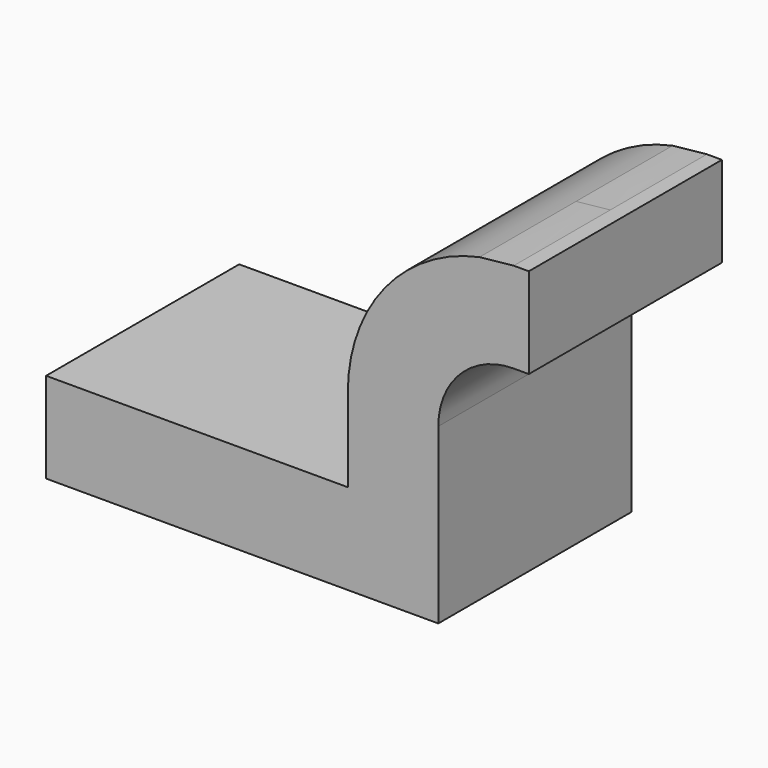
from build123d import *

# Parameters (mm, degrees)
F1_DEPTH = 25.4


with BuildPart() as f1:
    # F0 (on Front) → F1 (new body, symmetric)
    with BuildSketch(Plane.XZ):
        Polygon((22.225, 9.525), (-41.275, 9.525), (-41.275, -9.525), (41.275, -9.525), (41.275, 9.525), align=None)
        with BuildLine():
            Line((22.225, 27.0002), (22.225, 9.525))
            Line((22.225, 9.525), (41.275, 9.525))
            Line((41.275, 9.525), (41.275, 27.0002))
            ThreePointArc((41.275, 27.0002), (45.92468, 38.22552), (57.15, 42.8752))
            Line((57.15, 42.8752), (60.325, 42.8752))
            Line((60.325, 42.8752), (60.325, 61.9252))
            Line((60.325, 61.9252), (57.15, 61.9252))
            add(Edge.make_bspline(
                [(57.15, 61.9252), (54.741401, 61.724743), (52.339459, 61.474643), (49.947598, 61.174474)],
                knots=[0, 0, 0, 0, 6.756417, 6.756417, 6.756417, 6.756417], degree=3))
            ThreePointArc((49.947598, 61.174474), (30.027136, 49.002606), (22.225, 27.0002))
        make_face()
    extrude(amount=F1_DEPTH, both=True)


solid = f1.part
